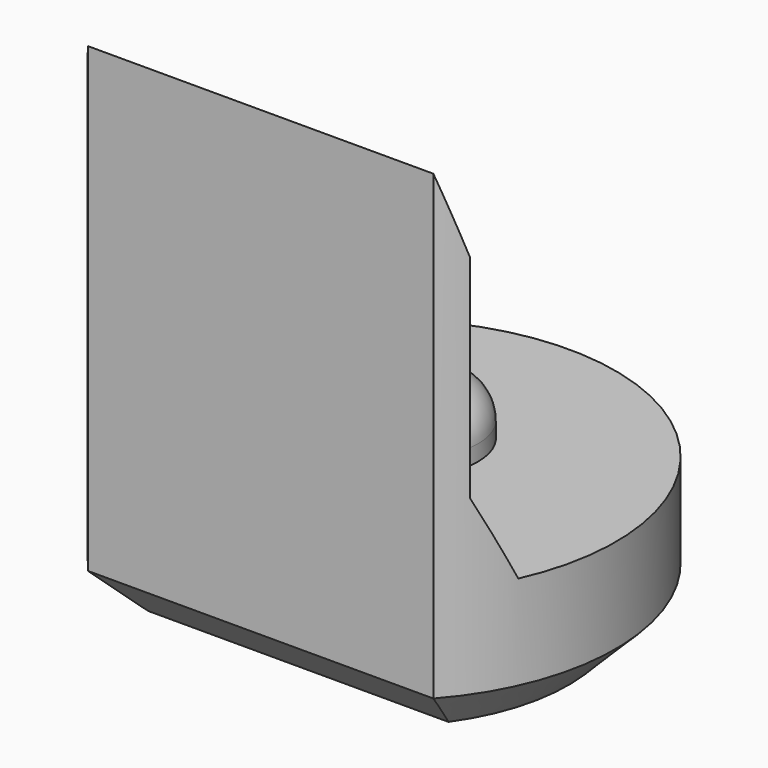
from build123d import *

# Parameters (mm, degrees)
PAD003_DEPTH         = 6.5
POCKET004_DEPTH      = 2.951
POCKET004_DEPTH_BACK = 2.951
SKETCH013_R          = 0.8
PAD006_DEPTH         = 0.7
FILLET_R             = 0.5
CHAMFER004_SIZE      = 0.6


with BuildPart() as part:
    # Sketch004 → Pad003 (new body)
    with BuildSketch(Plane.XY):
        with BuildLine():
            ThreePointArc((2.2, -1.9653244007), (0, 2.95), (-2.2, -1.9653244007))
            Line((-2.2, -1.9653244007), (2.2, -1.9653244007))
        make_face()
    extrude(amount=PAD003_DEPTH)

    # Sketch014 → Pocket004 (cut, two sides)
    with BuildSketch(Plane.YZ) as pocket004_sk:
        Polygon((-1.97, 6.5), (-1.67, 5.5), (-1.67, 2.8), (-1.22, 1.8), (4, 1.8), (4, 6.5), align=None)
    extrude(amount=-POCKET004_DEPTH, mode=Mode.SUBTRACT)
    extrude(pocket004_sk.sketch, amount=POCKET004_DEPTH_BACK, mode=Mode.SUBTRACT)

    # Sketch013 (on Face7 of Pocket004) → Pad006 (join)
    with BuildSketch(Plane.XY.offset(1.8)):
        with Locations((0, 0.5)):
            Circle(SKETCH013_R)
    extrude(amount=PAD006_DEPTH)

    # Fillet
    fillet_edges = [part.edges().sort_by_distance(p)[0] for p in [
        (-0.8, 0.5, 2.5),
    ]]
    fillet(fillet_edges, radius=FILLET_R)

    # Chamfer004
    chamfer004_edges = [part.edges().sort_by_distance(p)[0] for p in [
        (0, 2.95, 0),
        (0, -1.965324, 0),
    ]]
    chamfer(chamfer004_edges, length=CHAMFER004_SIZE)


with BuildPart() as part_1:
    # Body033 placement: moved
    add(part.part.moved(Location((0, 84, 0))))


solid = part_1.part
